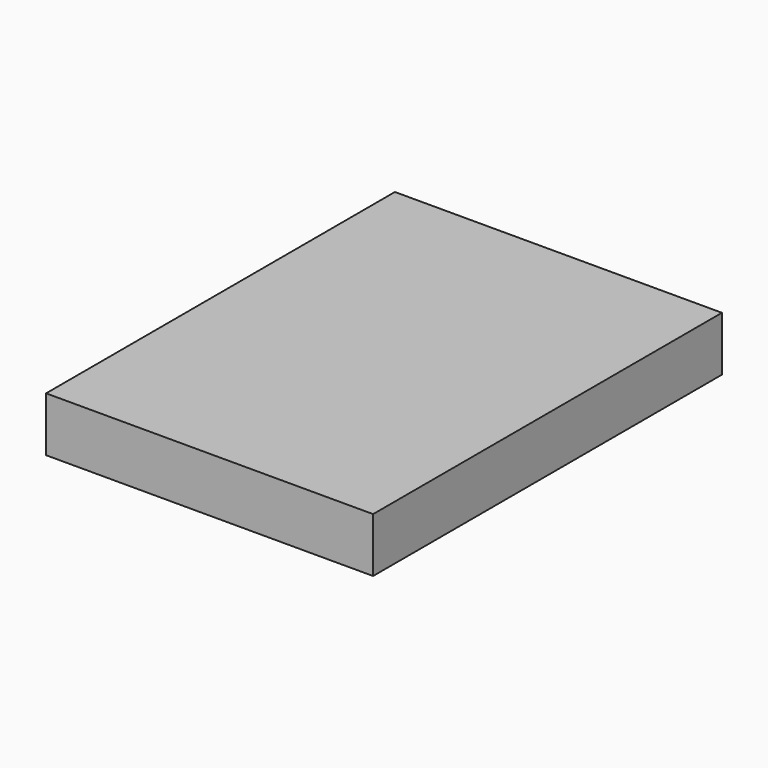
from build123d import *

# Parameters (mm, degrees)
SKETCH_W  = 1524
SKETCH_H  = 2032
PAD_DEPTH = 254


with BuildPart() as part:
    # Sketch → Pad (new body)
    with BuildSketch(Plane.XY):
        with Locations((-762, -1016)):
            Rectangle(SKETCH_W, SKETCH_H)
    extrude(amount=PAD_DEPTH)


solid = part.part
